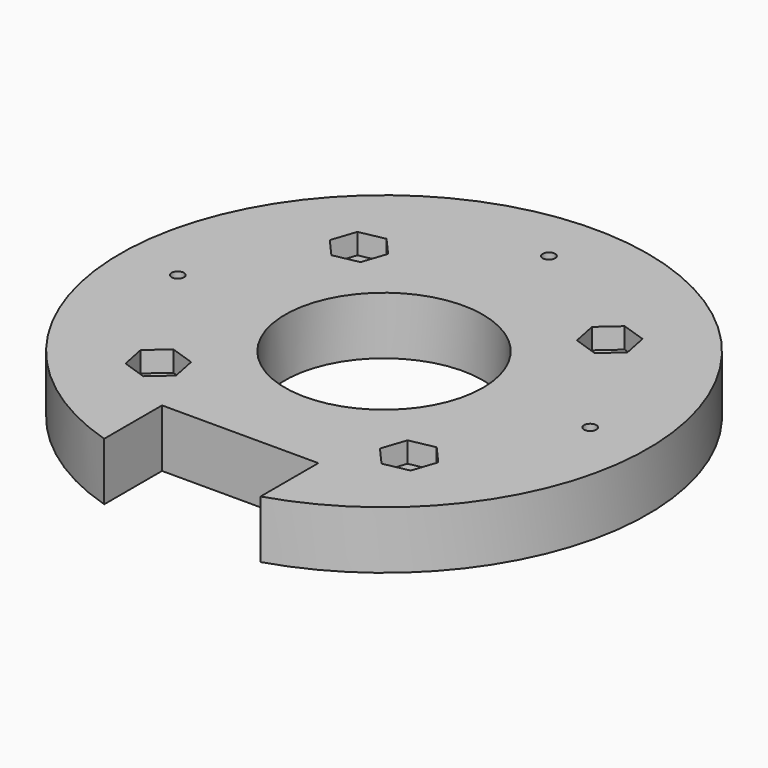
from build123d import *

# Parameters (mm, degrees)
F0_R     = 32
F0_R_2   = 12
F1_DEPTH = 7
F3_D     = 2.5
F4_DEPTH = 2.5
F5_R     = 0.75
F6_DEPTH = 25
F7_W     = 18.952996
F7_H     = 20.40381
F8_DEPTH = 25


with BuildPart() as f1:
    # F0 (on Top) → F1 (new body)
    with BuildSketch(Plane.XY):
        Circle(F0_R)
        Circle(F0_R_2, mode=Mode.SUBTRACT)
    extrude(amount=F1_DEPTH)

    # F3 (through all)
    with Locations(Plane.XY.offset(7)):
        with Locations((-15.202796, 15.202796), (15.202796, 15.202796), (15.202796, -15.202796), (-15.202796, -15.202796)):
            Hole(F3_D / 2)

    # F2 (on face) → F4 (cut)
    with BuildSketch(Plane.XY.offset(7)):
        Polygon((-12.158075, 15.817457), (-14.212748, 18.146932), (-17.257468, 17.532271), (-18.247517, 14.588135), (-16.192844, 12.25866), (-13.148123, 12.873321), align=None)
        Polygon((12.25866, 16.192844), (12.873321, 13.148123), (15.817457, 12.158075), (18.146932, 14.212748), (17.532271, 17.257468), (14.588135, 18.247517), align=None)
        Polygon((16.192844, -12.25866), (13.148123, -12.873321), (12.158075, -15.817457), (14.212748, -18.146932), (17.257468, -17.532271), (18.247517, -14.588135), align=None)
        Polygon((-12.25866, -16.192844), (-12.873321, -13.148123), (-15.817457, -12.158075), (-18.146932, -14.212748), (-17.532271, -17.257468), (-14.588135, -18.247517), align=None)
    extrude(amount=-F4_DEPTH, mode=Mode.SUBTRACT)

    # F5 (on Top) → F6 (cut)
    with BuildSketch(Plane.XY):
        with Locations((-25, 0)):
            Circle(F5_R)
        with Locations((0, -25)):
            Circle(F5_R)
        with Locations((25, 0)):
            Circle(F5_R)
        with Locations((0, 25)):
            Circle(F5_R)
    extrude(amount=F6_DEPTH, mode=Mode.SUBTRACT)

    # F7 (on Top) → F8 (cut)
    with BuildSketch(Plane.XY):
        with Locations((0, -32.00157)):
            Rectangle(F7_W, F7_H)
    extrude(amount=F8_DEPTH, mode=Mode.SUBTRACT)


solid = f1.part
